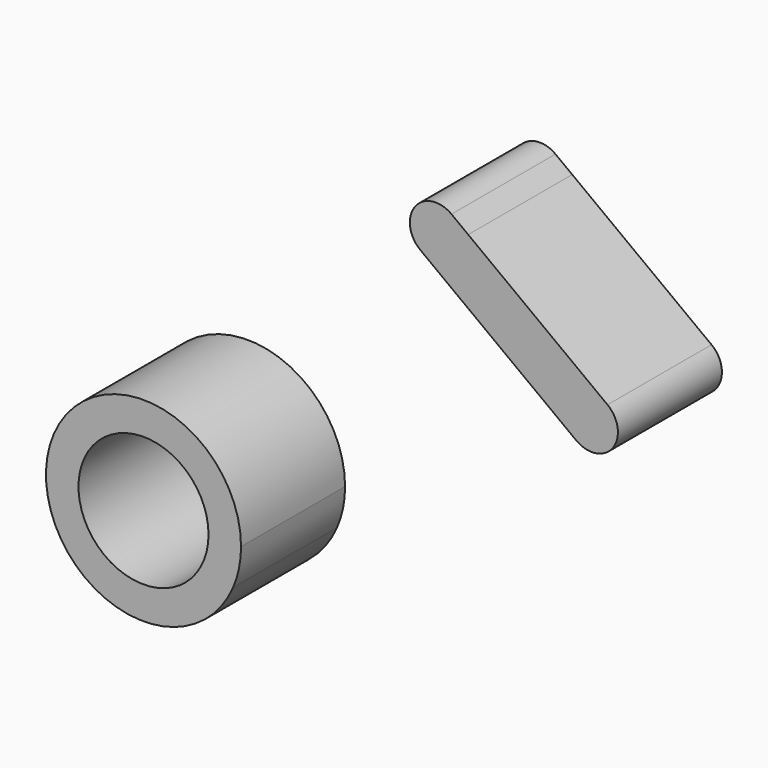
from build123d import *

# Parameters (mm, degrees)
F1_R     = 5
F2_DEPTH = 10


with BuildPart() as f2:
    # F1 (on Front) → F2 (new body)
    with BuildSketch(Plane.XZ):
        with BuildLine():
            ThreePointArc((6.883791, 12.022851), (7.344332, 13.479874), (7.5, 15))
            ThreePointArc((7.5, 15), (1.520126, 22.344332), (-6.883791, 17.977149))
            ThreePointArc((-6.883791, 17.977149), (-2.977149, 8.116209), (6.883791, 12.022851))
        make_face()
        with Locations((0, 15)):
            Circle(F1_R, mode=Mode.SUBTRACT)
        with BuildLine():
            ThreePointArc((23.682229, 42.768662), (21.510178, 42.916552), (20.489929, 40.993332))
            ThreePointArc((20.489929, 40.993332), (22.718513, 41.461822), (24.970147, 41.802725))
            Line((24.970147, 41.802725), (23.682229, 42.768662))
        make_face()
        with BuildLine():
            ThreePointArc((24.970147, 41.802725), (22.718513, 41.461822), (20.489929, 40.993332))
            ThreePointArc((20.489929, 40.993332), (20.73434, 40.196611), (21.282229, 39.568662))
            Line((21.282229, 39.568662), (33.282229, 30.568662))
            ThreePointArc((33.282229, 30.568662), (36.082229, 30.968663), (35.682229, 33.768663))
            Line((35.682229, 33.768663), (24.970147, 41.802725))
        make_face()
    extrude(amount=F2_DEPTH)


solid = f2.part
